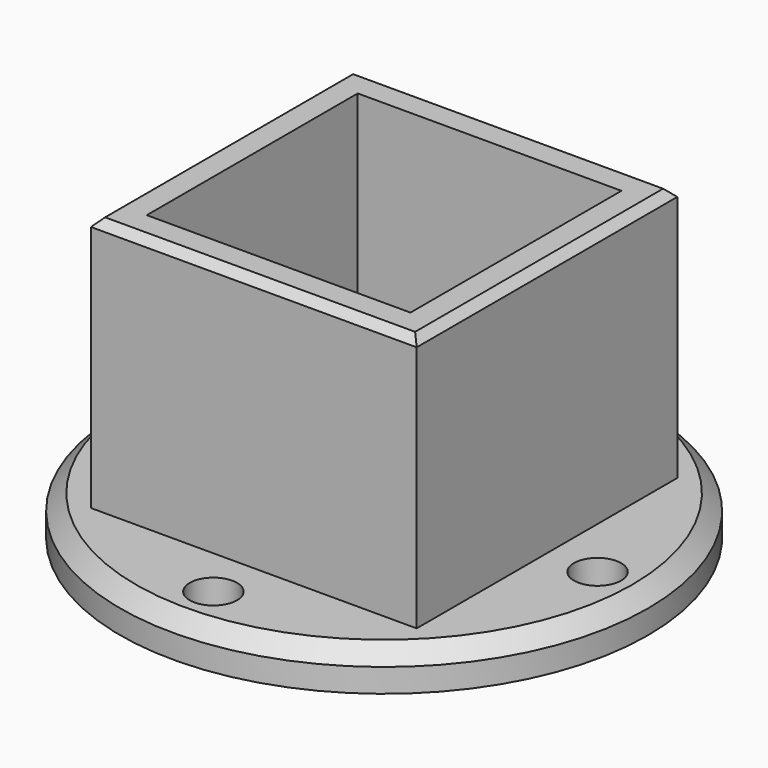
from build123d import *

# Parameters (mm, degrees)
F0_W         = 52.5
F0_H         = 52.5
F0_W_2       = 42.5
F0_H_2       = 42.5
F1_DEPTH     = 33.02
F2_R         = 3.81
F1_FACE1_W   = 52.5
F1_FACE1_H   = 52.5
F1_FACE1_W_2 = 42.5
F1_FACE1_H_2 = 42.5
F3_DEPTH     = 8.128
F4_R         = 42.5432713814
F5_DEPTH     = 6.35
F6_SIZE      = 1.27
F7_R         = 3.81
F8_DEPTH     = 6.35
F9_SIZE      = 2.54


with BuildPart() as f1:
    # F0 (on Top) → F1 (new body)
    with BuildSketch(Plane.XY):
        Rectangle(F0_W, F0_H)
        Rectangle(F0_W_2, F0_H_2, mode=Mode.SUBTRACT)
    extrude(amount=F1_DEPTH)

    # F2 (on face) + F1_face1 (on face) → F3 (join)
    with BuildSketch(Plane(origin=(0, 0, 0), x_dir=(1, 0, 0), z_dir=(0, 0, -1))):
        Polygon((26.25, 26.25), (-26.25, 26.25), (-26.25, -26.25), (-5.715, -26.25), (-5.715, -21.25), (-21.25, -21.25), (-21.25, 21.25), (21.25, 21.25), (21.25, -21.25), (5.715, -21.25), (5.715, -26.25), (26.25, -26.25), align=None)
        with BuildLine():
            Line((-21.25, -21.25), (-5.715, -21.25))
            Line((-5.715, -21.25), (-5.715, -17.995))
            ThreePointArc((-5.715, -17.995), (-4.7850640303, -15.7499359697), (-2.54, -14.82))
            Line((-2.54, -14.82), (2.54, -14.82))
            ThreePointArc((2.54, -14.82), (4.7850640303, -15.7499359697), (5.715, -17.995))
            Line((5.715, -17.995), (5.715, -21.25))
            Line((5.715, -21.25), (21.25, -21.25))
            Line((21.25, -21.25), (21.25, 21.25))
            Line((21.25, 21.25), (-21.25, 21.25))
            Line((-21.25, 21.25), (-21.25, -21.25))
        make_face()
        Circle(F2_R, mode=Mode.SUBTRACT)
    with BuildSketch(Plane.XY.offset(33.02)):
        Rectangle(F1_FACE1_W, F1_FACE1_H)
        Rectangle(F1_FACE1_W_2, F1_FACE1_H_2, mode=Mode.SUBTRACT)
    extrude(amount=F3_DEPTH, dir=(0, 0, -1))

    # F4 (on face) → F5 (join)
    with BuildSketch(Plane(origin=(0, 0, -8.128), x_dir=(1, 0, 0), z_dir=(0, 0, -1))):
        Circle(F4_R)
    extrude(amount=F5_DEPTH)

    # F6
    f6_edges = [f1.edges().sort_by_distance(p)[0] for p in [
        (26.25, 0, 33.02),
        (0, 26.25, 33.02),
        (-26.25, 0, 33.02),
        (0, -26.25, 33.02),
    ]]
    chamfer(f6_edges, length=F6_SIZE)

    # F7 (on face) → F8 (cut, through all)
    with BuildSketch(Plane(origin=(0, 0, -8.128), x_dir=(1, 0, 0), z_dir=(0, 0, -1))):
        with Locations((0, 34.3966356907)):
            Circle(F7_R)
        with Locations((34.3966356907, 0)):
            Circle(F7_R)
        with Locations((0, -34.3966356907)):
            Circle(F7_R)
        with Locations((-34.3966356907, 0)):
            Circle(F7_R)
    extrude(amount=F8_DEPTH, mode=Mode.SUBTRACT)

    # F9
    f9_edges = [f1.edges().sort_by_distance(p)[0] for p in [
        (-42.543271, 0, -8.128),
    ]]
    chamfer(f9_edges, length=F9_SIZE)


solid = f1.part
